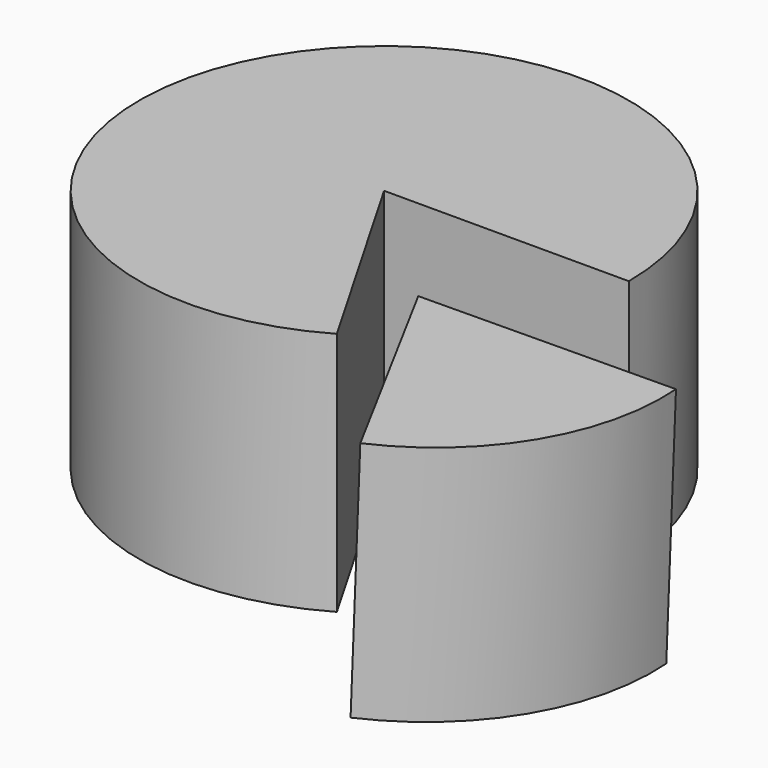
from build123d import *

# Parameters (mm, degrees)
CYLINDER_W                  = 2
CYLINDER_H                  = 2
CYLINDER_ANGLE              = 300
CYLINDER001_W               = 2
CYLINDER001_H               = 2
CYLINDER001_ANGLE           = 66
CYLINDER001_ROLL_ANGLE      = -2
CYLINDER001_PITCH_ANGLE     = 1
CYLINDER001_PLACEMENT_ANGLE = -62


with BuildPart() as cilindre:
    # Cylinder → Cylinder (revolve)
    with BuildSketch(Plane.XZ):
        with Locations((1, 1)):
            Rectangle(CYLINDER_W, CYLINDER_H)
    revolve(axis=Axis((0, 0, 0), (0, 0, 1)), revolution_arc=CYLINDER_ANGLE)


with BuildPart() as cilindre001:
    # Cylinder001 → Cylinder001 (revolve)
    with BuildSketch(Plane.XZ):
        with Locations((1, 1)):
            Rectangle(CYLINDER001_W, CYLINDER001_H)
    revolve(axis=Axis((0, 0, 0), (0, 0, 1)), revolution_arc=CYLINDER001_ANGLE)


with BuildPart() as cilindre001_1:
    # Cylinder001 roll: moved
    add(cilindre001.part.rotate(Axis((0, 0, 0), (1, 0, 0)), CYLINDER001_ROLL_ANGLE))


with BuildPart() as cilindre001_2:
    # Cylinder001 pitch: moved
    add(cilindre001_1.part.rotate(Axis((0, 0, 0), (0, 1, 0)), CYLINDER001_PITCH_ANGLE))


with BuildPart() as cilindre001_3:
    # Cylinder001 placement: moved
    add(cilindre001_2.part.moved(Location((1, -1, 0))).rotate(Axis((1, -1, 0), (0, 0, 1)), CYLINDER001_PLACEMENT_ANGLE))


solid = Compound([cilindre.part, cilindre001_3.part])
